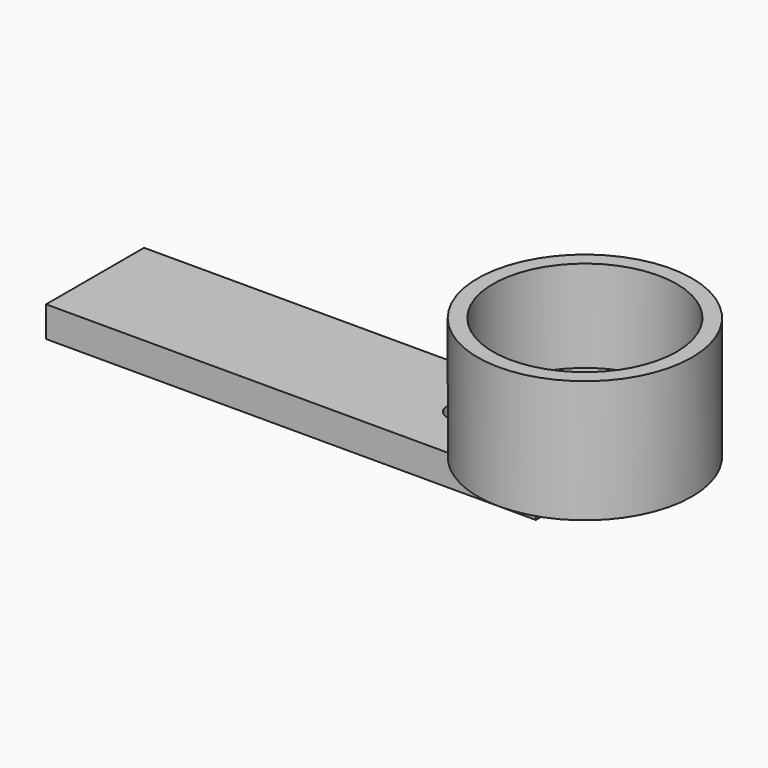
from build123d import *

# Parameters (mm, degrees)
F1_DEPTH = 6.35
F2_R     = 3.175
F3_DEPTH = 6.35
F5_DEPTH = 6.35
F4_R     = 22.225
F4_R_2   = 19.05
F6_DEPTH = 25.4


with BuildPart() as f1:
    # F0 (on Top) → F1 (new body)
    with BuildSketch(Plane.XY):
        Polygon((-42.868439, 12.7), (-42.868439, 0), (-42.868439, -12.7), (58.731561, -12.7), (58.731561, 12.7), align=None)
    extrude(amount=F1_DEPTH)

    # F2 (on face) → F3 (cut)
    with BuildSketch(Plane.XY.offset(6.35)):
        with Locations((33.331561, 0)):
            Circle(F2_R)
    extrude(amount=-F3_DEPTH, mode=Mode.SUBTRACT)

    # F4 (on face) → F5 (join)
    with BuildSketch(Plane.XY.offset(6.35)):
        with BuildLine():
            ThreePointArc((77.781561, 0), (65.529022, 17.795983), (44.532529, 12.7))
            Line((44.532529, 12.7), (58.731561, 12.7))
            Line((58.731561, 12.7), (58.731561, -12.7))
            Line((58.731561, -12.7), (44.532529, -12.7))
            ThreePointArc((44.532529, -12.7), (65.529022, -17.795983), (77.781561, 0))
        make_face()
        with BuildLine():
            Line((58.731561, 12.7), (44.532529, 12.7))
            ThreePointArc((44.532529, 12.7), (39.681561, 0), (44.532529, -12.7))
            Line((44.532529, -12.7), (58.731561, -12.7))
            Line((58.731561, -12.7), (58.731561, 12.7))
        make_face()
    extrude(amount=F5_DEPTH)

    # F4 (on face) → F6 (join)
    with BuildSketch(Plane.XY.offset(6.35)):
        with Locations((58.731561, 0)):
            Circle(F4_R)
        with Locations((58.731561, 0)):
            Circle(F4_R_2, mode=Mode.SUBTRACT)
    extrude(amount=F6_DEPTH)


solid = f1.part
